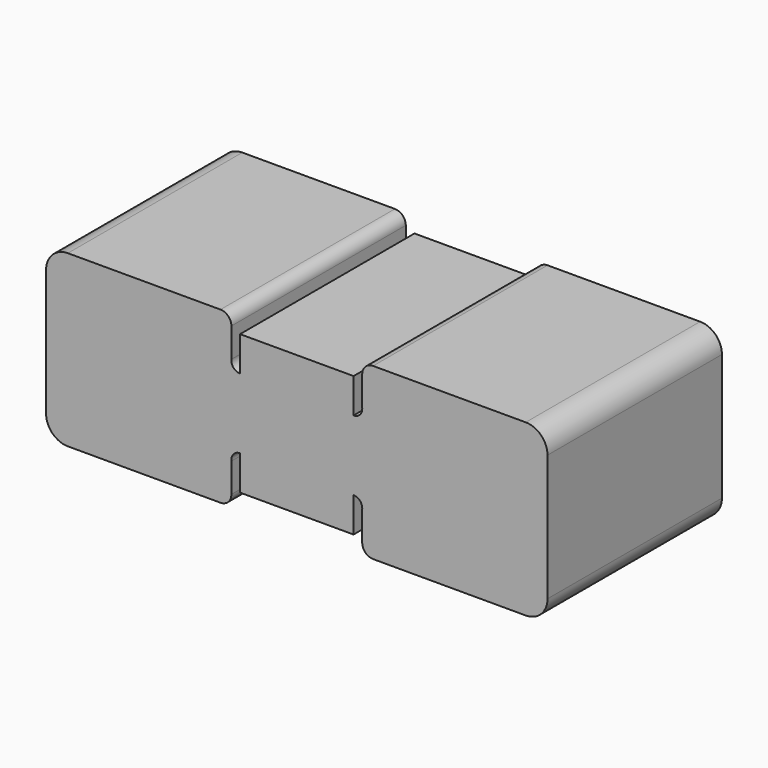
from build123d import *

# Parameters (mm, degrees)
F1_DEPTH = 25.4


with BuildPart() as f1:
    # F0 (on Front) → F1 (new body)
    with BuildSketch(Plane.XZ):
        with BuildLine():
            Line((-17.578895, 7.366), (-17.578895, 0))
            Line((-17.578895, 0), (-17.578895, -7.366))
            ThreePointArc((-17.578895, -7.366), (-16.834947, -9.162051), (-15.038895, -9.906))
            Line((-15.038895, -9.906), (2.741105, -9.906))
            ThreePointArc((2.741105, -9.906), (3.63913, -9.534026), (4.011105, -8.636))
            Line((4.011105, -8.636), (4.011105, -5.221252))
            ThreePointArc((4.011105, -5.221252), (4.2608, -4.427238), (5.020116, -4.086291))
            Line((5.020116, -4.086291), (5.020116, -8.128))
            Line((5.020116, -8.128), (11.631105, -8.128))
            Line((11.631105, -8.128), (18.242093, -8.128))
            Line((18.242093, -8.128), (18.242093, -4.086291))
            ThreePointArc((18.242093, -4.086291), (19.001409, -4.427238), (19.251105, -5.221252))
            Line((19.251105, -5.221252), (19.251105, -8.636))
            ThreePointArc((19.251105, -8.636), (19.623079, -9.534026), (20.521105, -9.906))
            Line((20.521105, -9.906), (38.301105, -9.906))
            ThreePointArc((38.301105, -9.906), (40.097156, -9.162051), (40.841105, -7.366))
            Line((40.841105, -7.366), (40.841105, 0))
            Line((40.841105, 0), (40.841105, 7.366))
            ThreePointArc((40.841105, 7.366), (40.097156, 9.162051), (38.301105, 9.906))
            Line((38.301105, 9.906), (20.521105, 9.906))
            ThreePointArc((20.521105, 9.906), (19.623079, 9.534026), (19.251105, 8.636))
            Line((19.251105, 8.636), (19.251105, 5.221252))
            ThreePointArc((19.251105, 5.221252), (19.001409, 4.427238), (18.242093, 4.086291))
            Line((18.242093, 4.086291), (18.242093, 8.128))
            Line((18.242093, 8.128), (11.631105, 8.128))
            Line((11.631105, 8.128), (5.020116, 8.128))
            Line((5.020116, 8.128), (5.020116, 4.086291))
            ThreePointArc((5.020116, 4.086291), (4.2608, 4.427238), (4.011105, 5.221252))
            Line((4.011105, 5.221252), (4.011105, 8.636))
            ThreePointArc((4.011105, 8.636), (3.63913, 9.534026), (2.741105, 9.906))
            Line((2.741105, 9.906), (-15.038895, 9.906))
            ThreePointArc((-15.038895, 9.906), (-16.834947, 9.162051), (-17.578895, 7.366))
        make_face()
    extrude(amount=F1_DEPTH)


solid = f1.part
